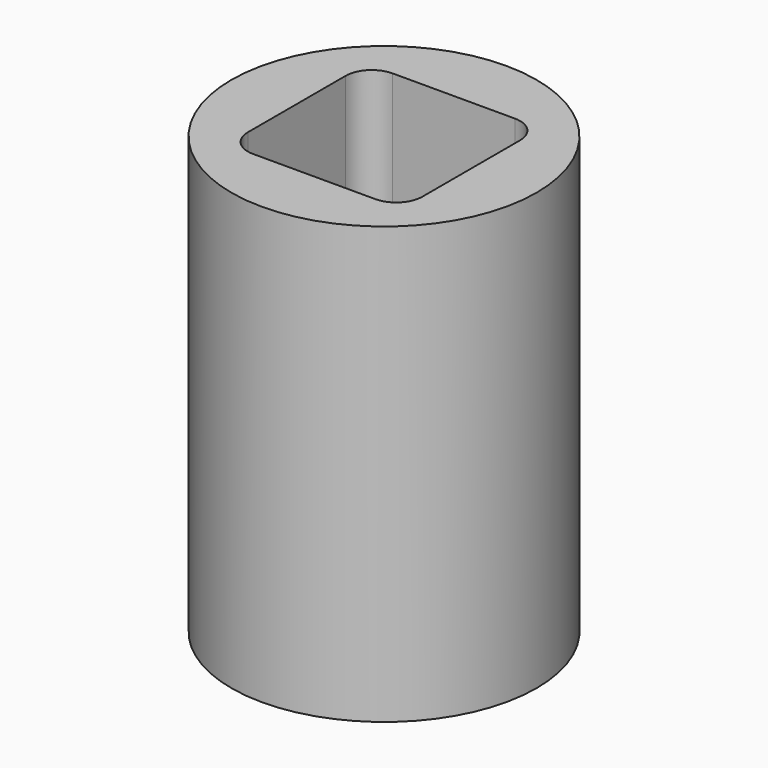
from build123d import *

# Parameters (mm, degrees)
F0_R          = 17.5
F0_W          = 20
F0_H          = 20
F1_DEPTH      = 25
F1_DEPTH_BACK = 25
F2_R          = 3


with BuildPart() as f1:
    # F0 (on Top) → F1 (new body, two sides)
    with BuildSketch(Plane.XY) as f1_sk:
        Circle(F0_R)
        Rectangle(F0_W, F0_H, mode=Mode.SUBTRACT)
    extrude(amount=F1_DEPTH)
    extrude(f1_sk.sketch, amount=-F1_DEPTH_BACK)

    # F2
    f2_edges = [f1.edges().sort_by_distance(p)[0] for p in [
        (-10, 10, 12.5),
        (10, 10, 12.5),
        (-10, -10, 12.5),
        (10, -10, 12.5),
    ]]
    fillet(f2_edges, radius=F2_R)


solid = f1.part
